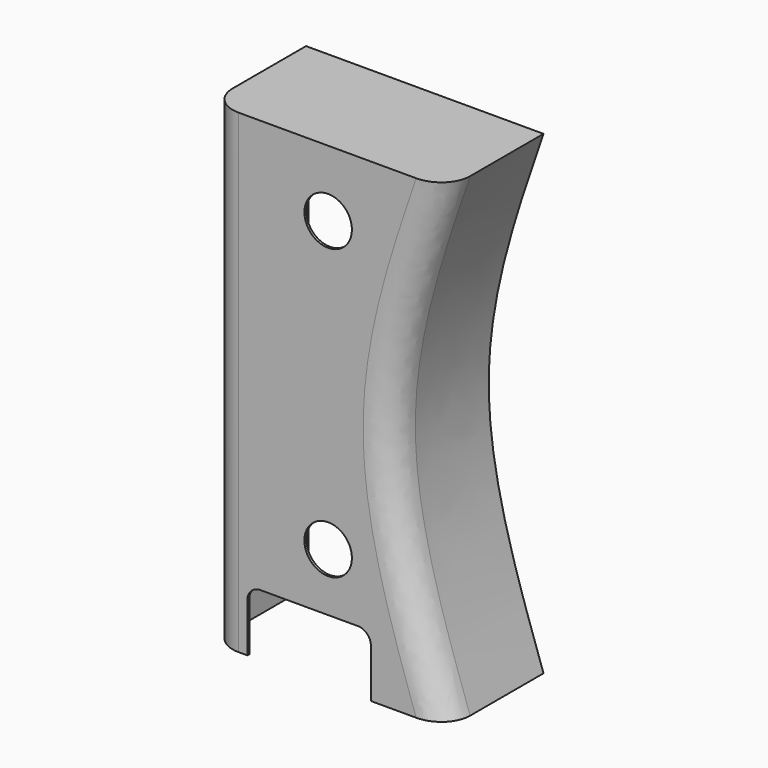
from build123d import *

# Parameters (mm, degrees)
F0_DEPTH = 127.137767151
F8_R     = 30.5052612997
F9_W     = 130
F9_H     = 65
F1_DEPTH = 404.413504526
F2_R     = 13.6095495466
F3_T     = -2.5
F5_D     = 50


with BuildPart() as f0:
    # F7 (on Front) → F0 (new body)
    with BuildSketch(Plane.XZ):
        with BuildLine():
            add(Edge.make_bspline(
                [(125, 250), (96.1666926742, 166.6666666667), (38.5000792642, 0), (96.1666901906, -166.6666666667), (125, -250)],
                knots=[0, 0, 0, 0, 0.5, 1, 1, 1, 1], degree=3))
            Line((125, 250), (-125, 250))
            Line((-125, 250), (-125, -250))
            Line((-125, -250), (125, -250))
        make_face()
    extrude(amount=F0_DEPTH)

    # F8
    f8_edges = [f0.edges().sort_by_distance(p)[0] for p in [
        (67.333385, -127.137767, 0),
        (-125, -127.137767, 0),
    ]]
    fillet(f8_edges, radius=F8_R)

    # F9 (on face) → F1 (cut)
    with BuildSketch(Plane(origin=(0, 0, 0), x_dir=(-1, 0, 0), z_dir=(0, 1, 0))):
        with Locations((20, -217.5)):
            Rectangle(F9_W, F9_H)
    extrude(amount=-F1_DEPTH, mode=Mode.SUBTRACT)

    # F2
    f2_edges = [f0.edges().sort_by_distance(p)[0] for p in [
        (45, -63.568884, -185),
        (-85, -63.568884, -185),
    ]]
    fillet(f2_edges, radius=F2_R)

    # F3
    f3_openings = [f0.faces().sort_by_distance(p)[0] for p in [
        (-17.051006, 0, 18.486444),
        (-20, -63.568884, -185),
        (-81.013855, -63.568884, -188.986145),
        (41.013855, -63.568884, -188.986145),
        (84.304295, -62.364714, -250),
        (-104.461032, -61.249084, -250),
        (-85, -63.568884, -224.304775),
        (45, -63.568884, -224.304775),
    ]]
    offset(amount=F3_T, openings=f3_openings, kind=Kind.INTERSECTION)

    # F5 (through all)
    with Locations(Plane.XZ.offset(127.137767151)):
        with Locations((0, 180.3100854158), (0, -123.9344850183)):
            Hole(F5_D / 2)


solid = f0.part
